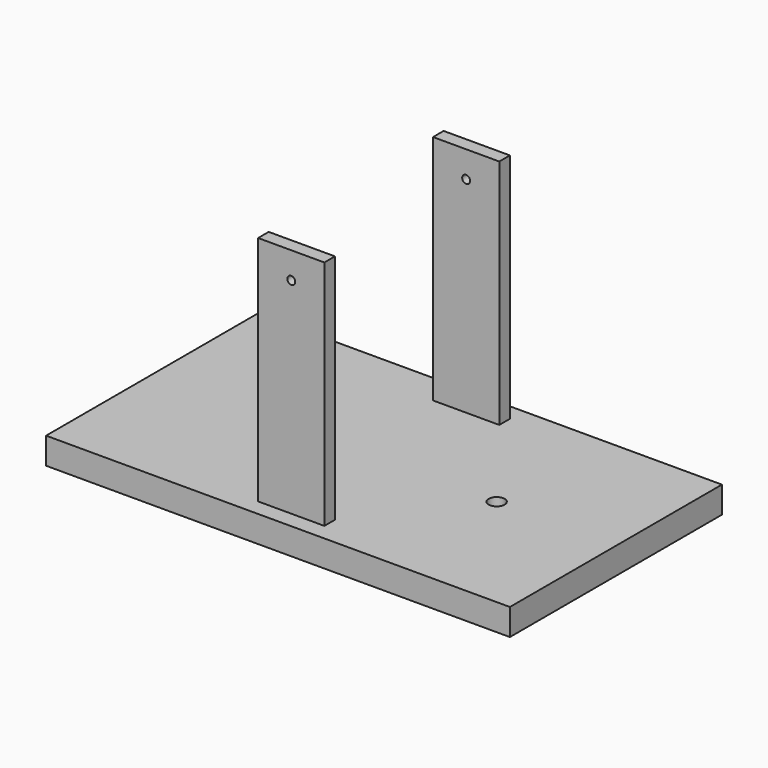
from build123d import *

# Parameters (mm, degrees)
SKETCH_W        = 70
SKETCH_H        = 40
PAD_DEPTH       = 4
SKETCH001_W     = 10
SKETCH001_H     = 2
PAD001_DEPTH    = 35
SKETCH002_R     = 0.6
POCKET_DEPTH    = 37
SKETCH003_R     = 1.2
POCKET001_DEPTH = 5


with BuildPart() as part:
    # Sketch → Pad (new body)
    with BuildSketch(Plane.XY):
        with Locations((35, 20)):
            Rectangle(SKETCH_W, SKETCH_H)
    extrude(amount=PAD_DEPTH)

    # Sketch001 (on Face6 of Pad) → Pad001 (join)
    with BuildSketch(Plane.XY.offset(4)):
        with Locations((35, 36.5)):
            Rectangle(SKETCH001_W, SKETCH001_H)
        with Locations((35, 3.5)):
            Rectangle(SKETCH001_W, SKETCH001_H)
    extrude(amount=PAD001_DEPTH)

    # Sketch002 (on Face8 of Pad001) → Pocket (cut)
    with BuildSketch(Plane.XZ.offset(-2.5)):
        with Locations((35, 35)):
            Circle(SKETCH002_R)
    extrude(amount=-POCKET_DEPTH, mode=Mode.SUBTRACT)

    # Sketch003 (on Face4 of Pocket) → Pocket001 (cut)
    with BuildSketch(Plane(origin=(0, 0, 0), x_dir=(1, 0, 0), z_dir=(0, 0, -1))):
        with Locations((18, -20)):
            Circle(SKETCH003_R)
        with Locations((52, -20)):
            Circle(SKETCH003_R)
    extrude(amount=-POCKET001_DEPTH, mode=Mode.SUBTRACT)


solid = part.part
